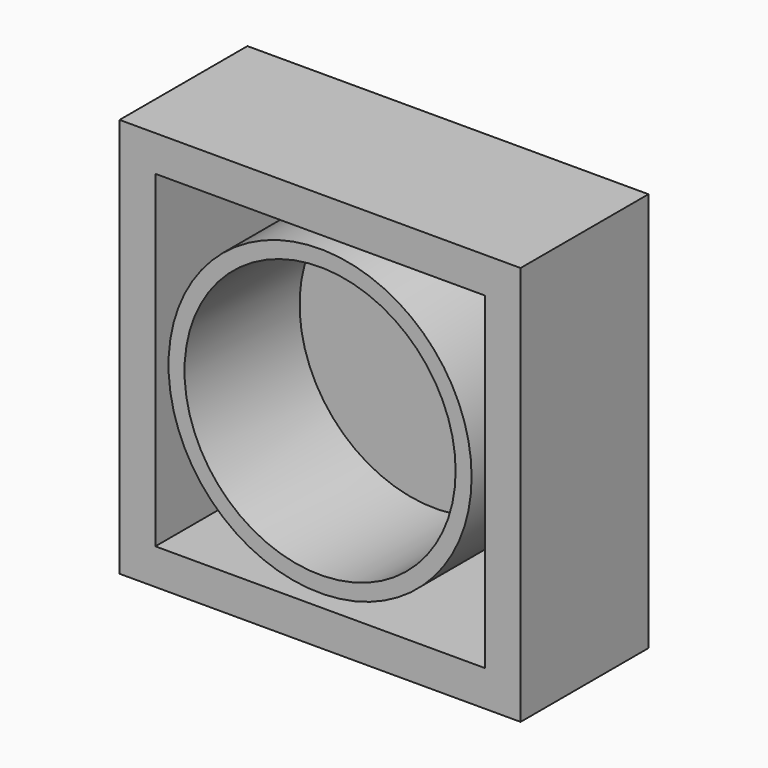
from build123d import *

# Parameters (mm, degrees)
F0_W     = 62.7311617136
F0_H     = 62.5071153045
F0_W_2   = 51.5291690826
F0_H_2   = 51.3051226735
F1_DEPTH = 25
F0_R     = 23.7040610585
F2_T     = -2.5


with BuildPart() as f1:
    # F0 (on Front) → F1 (new body)
    with BuildSketch(Plane.XZ):
        Rectangle(F0_W, F0_H)
        Rectangle(F0_W_2, F0_H_2, mode=Mode.SUBTRACT)
    extrude(amount=F1_DEPTH)


with BuildPart() as f1b:
    # F0 (on Front) → F1, piece 2 (new body)
    with BuildSketch(Plane.XZ):
        Circle(F0_R)
    extrude(amount=F1_DEPTH)

    # F2
    f2_openings = [f1b.faces().sort_by_distance(p)[0] for p in [
        (0, -25, 0),
    ]]
    offset(amount=F2_T, openings=f2_openings)


solid = Compound([f1.part, f1b.part])
